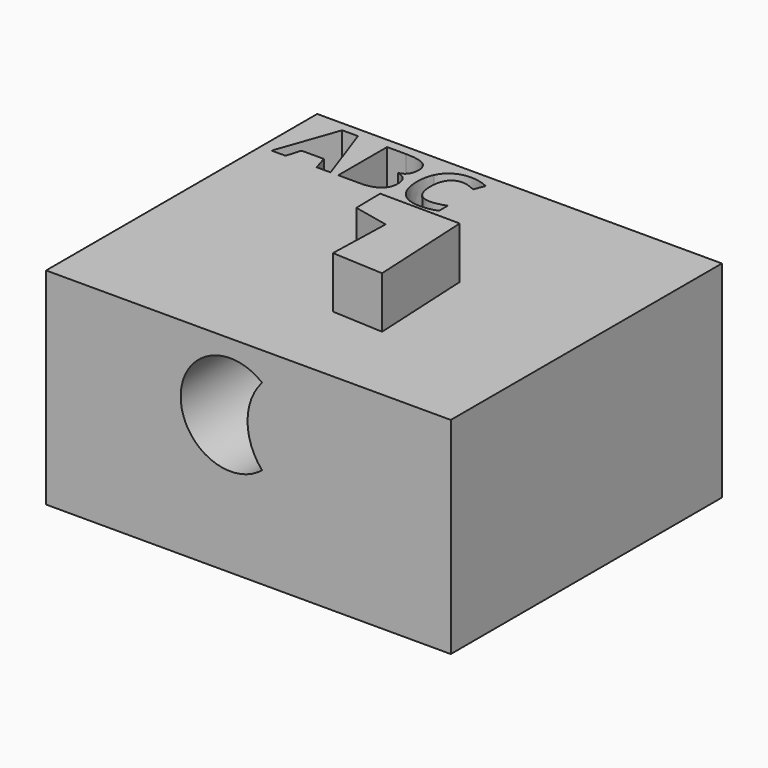
from build123d import *

# Parameters (mm, degrees)
F0_W     = 99.7463464737
F0_H     = 83.5314244032
F1_DEPTH = 50.8
F3_DEPTH = 76.2
F5_DEPTH = 12.7


with BuildPart() as f1:
    # F0 (on Top) → F1 (new body)
    with BuildSketch(Plane.XY):
        with Locations((4.4222511351, -4.3403580785)):
            Rectangle(F0_W, F0_H)
        Polygon((-28.2221282138, 20.0006692662), (-31.6609589625, 20.0006692662), (-32.7512395926, 23.5844315791), (-38.2388756342, 23.5844315791), (-39.3291562643, 20.0006692662), (-42.767987013, 20.0006692662), (-37.4549276283, 35.1130787253), (-33.5549509937, 35.1130787253), align=None, mode=Mode.SUBTRACT)
        with BuildLine():
            Line((-26.3281361826, 20.0006692662), (-26.3281361826, 35.0504946407))
            Line((-26.3281361826, 35.0504946407), (-21.6442115421, 35.0504946407))
            add(Edge.make_bspline(
                [(-21.6442115421, 35.0504946407), (-18.4425415347, 35.0504946407), (-16.9965197926, 34.1397315162)],
                knots=[0, 0, 0, 1, 1, 1], degree=2))
            add(Edge.make_bspline(
                [(-16.9965197926, 34.1397315162), (-15.5504980506, 33.2289683917), (-15.5504980506, 31.2427471833)],
                knots=[0, 0, 0, 1, 1, 1], degree=2))
            add(Edge.make_bspline(
                [(-15.5504980506, 31.2427471833), (-15.5504980506, 29.8922485176), (-16.182926694, 29.0275999817)],
                knots=[0, 0, 0, 1, 1, 1], degree=2))
            add(Edge.make_bspline(
                [(-16.182926694, 29.0275999817), (-16.8153553375, 28.1629514457), (-17.8661091773, 27.9883747889)],
                knots=[0, 0, 0, 1, 1, 1], degree=2))
            Line((-17.8661091773, 27.9883747889), (-17.8661091773, 27.8862639142))
            add(Edge.make_bspline(
                [(-17.8661091773, 27.8862639142), (-16.4365569312, 27.5667556933), (-15.8024813382, 26.6922254598)],
                knots=[0, 0, 0, 1, 1, 1], degree=2))
            add(Edge.make_bspline(
                [(-15.8024813382, 26.6922254598), (-15.1684057452, 25.8176952263), (-15.1684057452, 24.3650856859)],
                knots=[0, 0, 0, 1, 1, 1], degree=2))
            add(Edge.make_bspline(
                [(-15.1684057452, 24.3650856859), (-15.1684057452, 22.3063986955), (-16.6572481766, 21.1535339809)],
                knots=[0, 0, 0, 1, 1, 1], degree=2))
            add(Edge.make_bspline(
                [(-16.6572481766, 21.1535339809), (-18.146090608, 20.0006692662), (-20.6988624761, 20.0006692662)],
                knots=[0, 0, 0, 1, 1, 1], degree=2))
            Line((-20.6988624761, 20.0006692662), (-26.3281361826, 20.0006692662))
        make_face(mode=Mode.SUBTRACT)
        with BuildLine():
            add(Edge.make_bspline(
                [(-4.0943166865, 32.3116174687), (-4.9474365753, 32.6097153449), (-5.7709113714, 32.6097153449)],
                knots=[0, 0, 0, 1, 1, 1], degree=2))
            add(Edge.make_bspline(
                [(-5.7709113714, 32.6097153449), (-7.5726742254, 32.6097153449), (-8.5608439808, 31.2559227801)],
                knots=[0, 0, 0, 1, 1, 1], degree=2))
            add(Edge.make_bspline(
                [(-8.5608439808, 31.2559227801), (-9.5490137362, 29.9021302152), (-9.5490137362, 27.4844082137)],
                knots=[0, 0, 0, 1, 1, 1], degree=2))
            add(Edge.make_bspline(
                [(-9.5490137362, 27.4844082137), (-9.5490137362, 22.4513302596), (-5.7709113714, 22.4513302596)],
                knots=[0, 0, 0, 1, 1, 1], degree=2))
            add(Edge.make_bspline(
                [(-5.7709113714, 22.4513302596), (-4.1865458636, 22.4513302596), (-1.9335188214, 23.2418660639)],
                knots=[0, 0, 0, 1, 1, 1], degree=2))
            Line((-1.9335188214, 23.2418660639), (-1.9335188214, 20.567219926))
            add(Edge.make_bspline(
                [(-1.9335188214, 20.567219926), (-3.7846901631, 19.7931536176), (-6.0706561972, 19.7931536176)],
                knots=[0, 0, 0, 1, 1, 1], degree=2))
            add(Edge.make_bspline(
                [(-6.0706561972, 19.7931536176), (-9.3546736843, 19.7931536176), (-11.0938524538, 21.7859626243)],
                knots=[0, 0, 0, 1, 1, 1], degree=2))
            add(Edge.make_bspline(
                [(-11.0938524538, 21.7859626243), (-12.8330312233, 23.778771631), (-12.8330312233, 27.5041716088)],
                knots=[0, 0, 0, 1, 1, 1], degree=2))
            add(Edge.make_bspline(
                [(-12.8330312233, 27.5041716088), (-12.8330312233, 29.8527217274), (-11.9782643849, 31.6182516904)],
                knots=[0, 0, 0, 1, 1, 1], degree=2))
            add(Edge.make_bspline(
                [(-11.9782643849, 31.6182516904), (-11.1234975464, 33.3837816533), (-9.5226625427, 34.3241898705)],
                knots=[0, 0, 0, 1, 1, 1], degree=2))
            add(Edge.make_bspline(
                [(-9.5226625427, 34.3241898705), (-7.921827539, 35.2645980877), (-5.7709113714, 35.2645980877)],
                knots=[0, 0, 0, 1, 1, 1], degree=2))
            add(Edge.make_bspline(
                [(-5.7709113714, 35.2645980877), (-3.5804684137, 35.2645980877), (-1.3669681616, 34.2072564495)],
                knots=[0, 0, 0, 1, 1, 1], degree=2))
            Line((-1.3669681616, 34.2072564495), (-2.3946647072, 31.611663892))
            add(Edge.make_bspline(
                [(-2.3946647072, 31.611663892), (-3.2411967977, 32.0135195925), (-4.0943166865, 32.3116174687)],
                knots=[0, 0, 0, 1, 1, 1], degree=2))
        make_face(mode=Mode.SUBTRACT)
    extrude(amount=F1_DEPTH)

    # F2 (on face) → F3 (cut)
    with BuildSketch(Plane.XZ.offset(46.1060702801)):
        with BuildLine():
            ThreePointArc((7.7817309512, 24.7494648312), (4.2001656167, 34.2502631247), (7.7817309512, 43.7510614182))
            ThreePointArc((7.7817309512, 43.7510614182), (-12.2809, 34.2502631247), (7.7817309512, 24.7494648312))
        make_face()
    extrude(amount=-F3_DEPTH, mode=Mode.SUBTRACT)

    # F4 (on face) → F5 (join)
    with BuildSketch(Plane.XY.offset(50.8)):
        Polygon((19.7219643742, -0.1289248466), (0, 0), (0.1093503088, -7.4666291475), (8.8314060122, -9.341686964), (8.3788465708, -25.0158682466), (21.0125762969, -25.6724208593), align=None)
    extrude(amount=F5_DEPTH)


solid = f1.part
